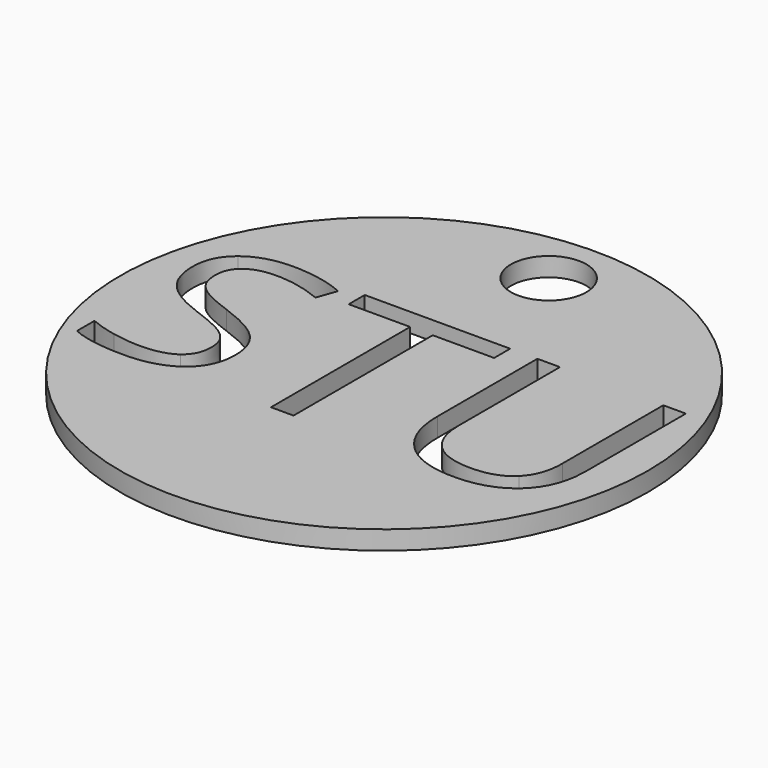
from build123d import *

# Parameters (mm, degrees)
F0_R     = 44.45
F0_R_2   = 6.35
F1_DEPTH = 3.175


with BuildPart() as f1:
    # F0 (on Top) → F1 (new body)
    with BuildSketch(Plane.XY):
        Circle(F0_R)
        with BuildLine():
            add(Edge.make_bspline(
                [(-20.4392500678, -2.7074250448), (-18.5086635833, -4.8096192168), (-18.5086635833, -8.1559691232)],
                knots=[0, 0, 0, 1, 1, 1], degree=2))
            add(Edge.make_bspline(
                [(-18.5086635833, -8.1559691232), (-18.5086635833, -12.4676122719), (-21.6369287203, -14.8844205377)],
                knots=[0, 0, 0, 1, 1, 1], degree=2))
            add(Edge.make_bspline(
                [(-21.6369287203, -14.8844205377), (-24.7651938572, -17.3012288034), (-30.1279340918, -17.3012288034)],
                knots=[0, 0, 0, 1, 1, 1], degree=2))
            add(Edge.make_bspline(
                [(-30.1279340918, -17.3012288034), (-35.9339941859, -17.3012288034), (-39.065834483, -15.7996615377)],
                knots=[0, 0, 0, 1, 1, 1], degree=2))
            Line((-39.065834483, -15.7996615377), (-39.065834483, -12.1386975375))
            add(Edge.make_bspline(
                [(-39.065834483, -12.1386975375), (-37.0494441547, -12.9824353344), (-34.6826881312, -13.475807436)],
                knots=[0, 0, 0, 1, 1, 1], degree=2))
            add(Edge.make_bspline(
                [(-34.6826881312, -13.475807436), (-32.3159321076, -13.9691795376), (-29.9920780059, -13.9691795376)],
                knots=[0, 0, 0, 1, 1, 1], degree=2))
            add(Edge.make_bspline(
                [(-29.9920780059, -13.9691795376), (-26.1952579197, -13.9691795376), (-24.2718217556, -12.5283899946)],
                knots=[0, 0, 0, 1, 1, 1], degree=2))
            add(Edge.make_bspline(
                [(-24.2718217556, -12.5283899946), (-22.3483855914, -11.0876004515), (-22.3483855914, -8.5134851389)],
                knots=[0, 0, 0, 1, 1, 1], degree=2))
            add(Edge.make_bspline(
                [(-22.3483855914, -8.5134851389), (-22.3483855914, -6.8188592247), (-23.0312411813, -5.7355856973)],
                knots=[0, 0, 0, 1, 1, 1], degree=2))
            add(Edge.make_bspline(
                [(-23.0312411813, -5.7355856973), (-23.7140967712, -4.6523121699), (-25.3121933611, -3.7334960097)],
                knots=[0, 0, 0, 1, 1, 1], degree=2))
            add(Edge.make_bspline(
                [(-25.3121933611, -3.7334960097), (-26.910289951, -2.8146798495), (-30.1708360137, -1.6563279588)],
                knots=[0, 0, 0, 1, 1, 1], degree=2))
            add(Edge.make_bspline(
                [(-30.1708360137, -1.6563279588), (-34.725590053, -0.0260549274), (-36.6812026586, 2.2084201704)],
                knots=[0, 0, 0, 1, 1, 1], degree=2))
            add(Edge.make_bspline(
                [(-36.6812026586, 2.2084201704), (-38.6368152642, 4.4428952681), (-38.6368152642, 8.0395063855)],
                knots=[0, 0, 0, 1, 1, 1], degree=2))
            add(Edge.make_bspline(
                [(-38.6368152642, 8.0395063855), (-38.6368152642, 11.8148755108), (-35.8017132601, 14.0493506086)],
                knots=[0, 0, 0, 1, 1, 1], degree=2))
            add(Edge.make_bspline(
                [(-35.8017132601, 14.0493506086), (-32.9666112561, 16.2838257063), (-28.2903017714, 16.2838257063)],
                knots=[0, 0, 0, 1, 1, 1], degree=2))
            add(Edge.make_bspline(
                [(-28.2903017714, 16.2838257063), (-23.4209336383, 16.2838257063), (-19.3309504193, 14.4962456281)],
                knots=[0, 0, 0, 1, 1, 1], degree=2))
            Line((-19.3309504193, 14.4962456281), (-20.5179035913, 11.1927976435))
            add(Edge.make_bspline(
                [(-20.5179035913, 11.1927976435), (-24.5649848884, 12.8874235577), (-28.3832559355, 12.8874235577)],
                knots=[0, 0, 0, 1, 1, 1], degree=2))
            add(Edge.make_bspline(
                [(-28.3832559355, 12.8874235577), (-31.4006911075, 12.8874235577), (-33.0988921819, 11.5932155811)],
                knots=[0, 0, 0, 1, 1, 1], degree=2))
            add(Edge.make_bspline(
                [(-33.0988921819, 11.5932155811), (-34.7970932562, 10.2990076044), (-34.7970932562, 7.9966044637)],
                knots=[0, 0, 0, 1, 1, 1], degree=2))
            add(Edge.make_bspline(
                [(-34.7970932562, 7.9966044637), (-34.7970932562, 6.3019785495), (-34.1714402288, 5.2151298619)],
                knots=[0, 0, 0, 1, 1, 1], degree=2))
            add(Edge.make_bspline(
                [(-34.1714402288, 5.2151298619), (-33.5457872014, 4.1282811744), (-32.0585205763, 3.2237656548)],
                knots=[0, 0, 0, 1, 1, 1], degree=2))
            add(Edge.make_bspline(
                [(-32.0585205763, 3.2237656548), (-30.5712539512, 2.3192501352), (-27.5109168573, 1.2252511273)],
                knots=[0, 0, 0, 1, 1, 1], degree=2))
            add(Edge.make_bspline(
                [(-27.5109168573, 1.2252511273), (-22.3698365523, -0.6052308728), (-20.4392500678, -2.7074250448)],
                knots=[0, 0, 0, 1, 1, 1], degree=2))
        make_face(mode=Mode.SUBTRACT)
        Polygon((-1.7697637308, 12.4441036983), (-1.7697637308, -16.8507586237), (-5.566583817, -16.8507586237), (-5.566583817, 12.4441036983), (-15.9130973098, 12.4441036983), (-15.9130973098, 15.819054886), (8.576749762, 15.819054886), (8.576749762, 12.4441036983), align=None, mode=Mode.SUBTRACT)
        with BuildLine():
            Line((34.3679551307, 15.819054886), (38.1647752168, 15.819054886))
            Line((38.1647752168, 15.819054886), (38.1647752168, -5.317291959))
            add(Edge.make_bspline(
                [(38.1647752168, -5.317291959), (38.1647752168, -10.9088424437), (34.7898240291, -14.1050356236)],
                knots=[0, 0, 0, 1, 1, 1], degree=2))
            add(Edge.make_bspline(
                [(34.7898240291, -14.1050356236), (31.4148728414, -17.3012288034), (25.5158585833, -17.3012288034)],
                knots=[0, 0, 0, 1, 1, 1], degree=2))
            add(Edge.make_bspline(
                [(25.5158585833, -17.3012288034), (19.6168443251, -17.3012288034), (16.3884747038, -14.0800095025)],
                knots=[0, 0, 0, 1, 1, 1], degree=2))
            add(Edge.make_bspline(
                [(16.3884747038, -14.0800095025), (13.1601050826, -10.8587902015), (13.1601050826, -5.2314881152)],
                knots=[0, 0, 0, 1, 1, 1], degree=2))
            Line((13.1601050826, -5.2314881152), (13.1601050826, 15.819054886))
            Line((13.1601050826, 15.819054886), (16.964075489, 15.819054886))
            Line((16.964075489, 15.819054886), (16.964075489, -5.4960499668))
            add(Edge.make_bspline(
                [(16.964075489, -5.4960499668), (16.964075489, -9.5860331858), (19.1985505868, -11.7776063617)],
                knots=[0, 0, 0, 1, 1, 1], degree=2))
            add(Edge.make_bspline(
                [(19.1985505868, -11.7776063617), (21.4330256846, -13.9691795376), (25.7661197942, -13.9691795376)],
                knots=[0, 0, 0, 1, 1, 1], degree=2))
            add(Edge.make_bspline(
                [(25.7661197942, -13.9691795376), (29.8990049351, -13.9691795376), (32.1334800329, -11.7668808812)],
                knots=[0, 0, 0, 1, 1, 1], degree=2))
            add(Edge.make_bspline(
                [(32.1334800329, -11.7668808812), (34.3679551307, -9.5645822249), (34.3679551307, -5.4531480449)],
                knots=[0, 0, 0, 1, 1, 1], degree=2))
            Line((34.3679551307, -5.4531480449), (34.3679551307, 15.819054886))
        make_face(mode=Mode.SUBTRACT)
        with Locations((0, 34.6494875848)):
            Circle(F0_R_2, mode=Mode.SUBTRACT)
    extrude(amount=F1_DEPTH)


solid = f1.part
